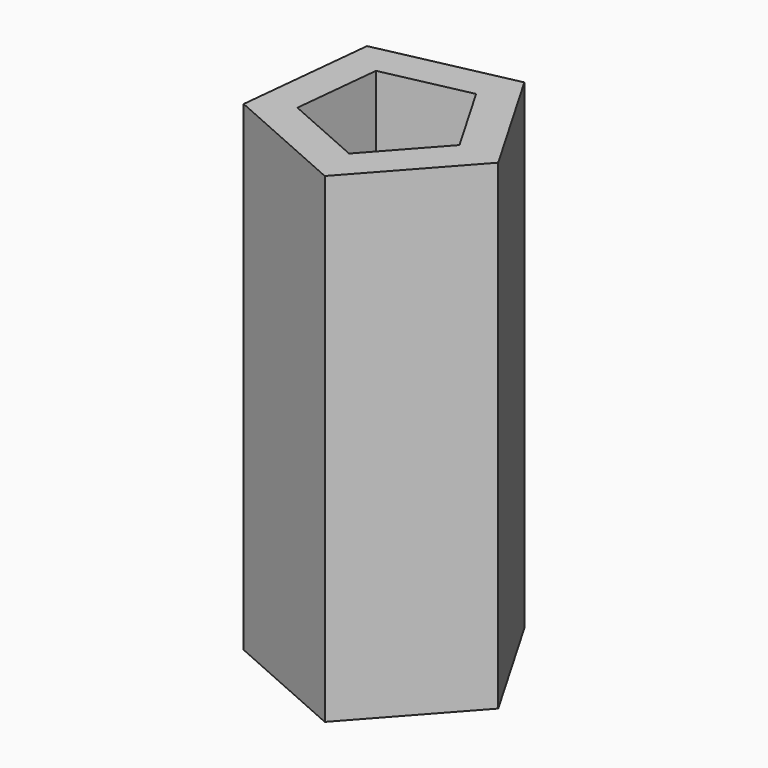
from build123d import *

# Parameters (mm, degrees)
F1_DEPTH = 177.8
F2_T     = -12.7
F3_R     = 6.7589749521
F4_DEPTH = 0.0762


with BuildPart() as f1:
    # F0 (on Top) → F1 (new body)
    with BuildSketch(Plane.XY):
        Polygon((42.9860351945, -4.42373426), (17.4906366902, 39.5151398165), (-32.1762272351, 28.8454337368), (-37.3766387512, -21.687681347), (9.0761941016, -42.2491579463), align=None)
    extrude(amount=F1_DEPTH)

    # F2
    f2_openings = [f1.faces().sort_by_distance(p)[0] for p in [
        (0, 0, 177.8),
    ]]
    offset(amount=F2_T, openings=f2_openings)

    # F3 (on face) → F4 (cut)
    with BuildSketch(Plane(origin=(-7.3427952725, 34.1802867766, 0), x_dir=(-0.9776941718, -0.2100335842, 0), z_dir=(-0.2100335842, 0.9776941718, 0))):
        with Locations((0, 81.7129537463)):
            Circle(F3_R)
    extrude(amount=-F4_DEPTH, mode=Mode.SUBTRACT)


solid = f1.part
